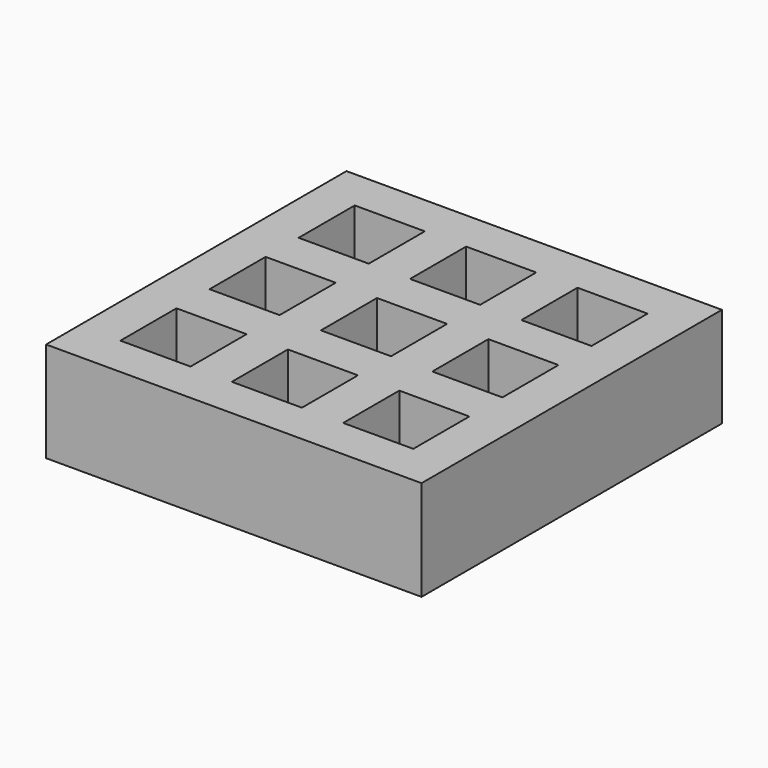
from build123d import *

# Parameters (mm, degrees)
F0_W     = 75
F0_H     = 75
F1_DEPTH = 20
F2_W     = 14
F2_H     = 14
F3_DEPTH = 12


with BuildPart() as f1:
    # F0 (on Top) → F1 (new body)
    with BuildSketch(Plane.XY):
        Rectangle(F0_W, F0_H)
    extrude(amount=F1_DEPTH)

    # F2 (on face) → F3 (cut)
    with BuildSketch(Plane.XY.offset(20)):
        Rectangle(F2_W, F2_H)
        with Locations((22.25, -22.25)):
            Rectangle(F2_W, F2_H)
        with Locations((22.25, 0)):
            Rectangle(F2_W, F2_H)
        with Locations((22.25, 22.25)):
            Rectangle(F2_W, F2_H)
        with Locations((0, 22.25)):
            Rectangle(F2_W, F2_H)
        with Locations((-22.25, 22.25)):
            Rectangle(F2_W, F2_H)
        with Locations((-22.25, 0)):
            Rectangle(F2_W, F2_H)
        with Locations((-22.25, -22.25)):
            Rectangle(F2_W, F2_H)
        with Locations((0, -22.25)):
            Rectangle(F2_W, F2_H)
    extrude(amount=-F3_DEPTH, mode=Mode.SUBTRACT)


solid = f1.part
